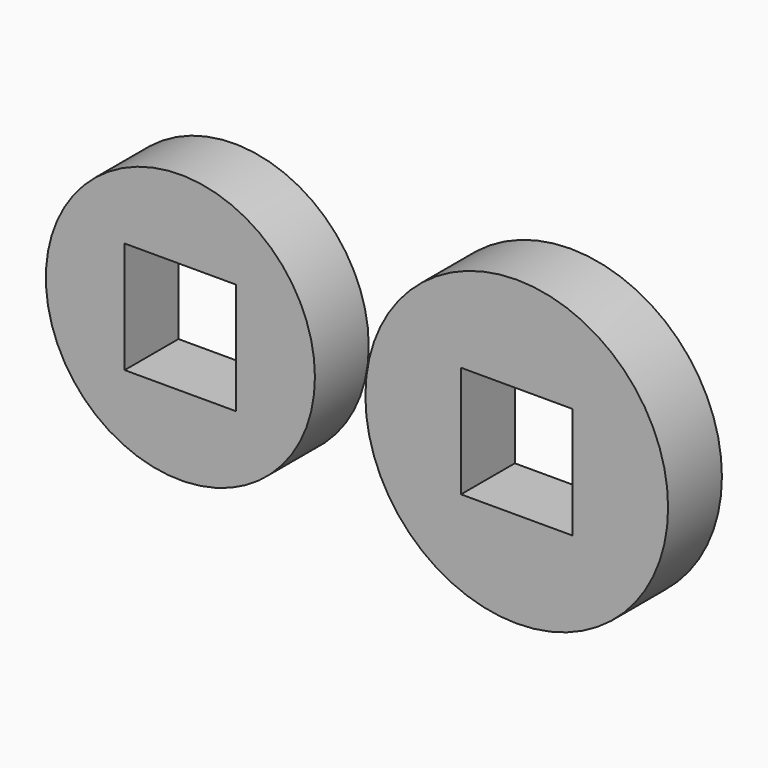
from build123d import *

# Parameters (mm, degrees)
F0_R     = 20
F0_W     = 16.56957
F0_H     = 16.56957
F0_R_2   = 22.5
F1_DEPTH = 10


with BuildPart() as f1:
    # F0 (on Front) → F1 (new body)
    with BuildSketch(Plane.XZ):
        Circle(F0_R)
        Rectangle(F0_W, F0_H, mode=Mode.SUBTRACT)
        with Locations((50, 0)):
            Circle(F0_R_2)
        with Locations((50, 0)):
            Rectangle(F0_W, F0_H, mode=Mode.SUBTRACT)
    extrude(amount=F1_DEPTH)


solid = f1.part
